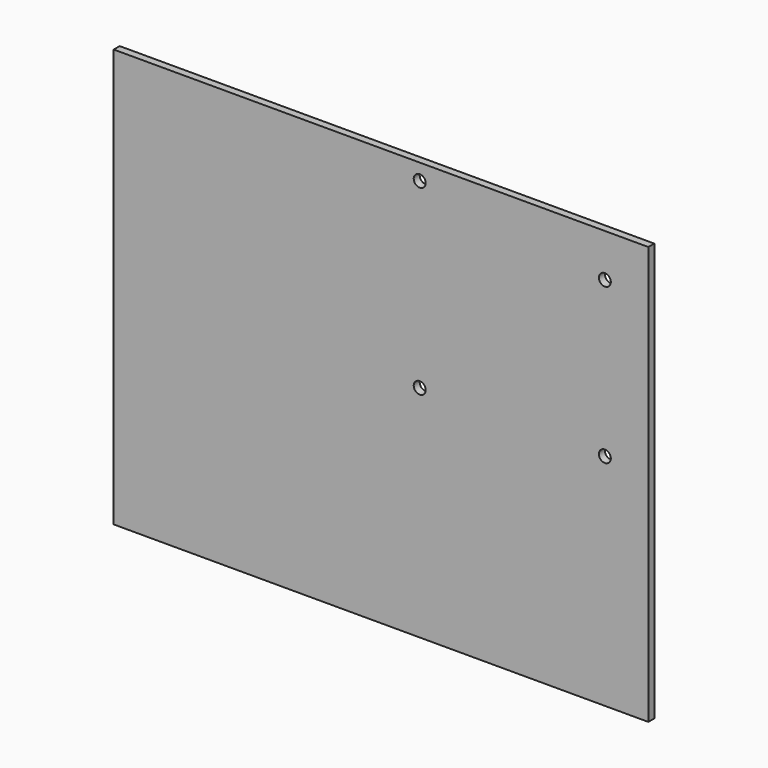
from build123d import *

# Parameters (mm, degrees)
F0_W     = 454.66
F0_H     = 355.6
F1_DEPTH = 6.35
F2_R     = 5.08
F3_DEPTH = 6.35


with BuildPart() as f1:
    # F0 (on Front) → F1 (new body)
    with BuildSketch(Plane.XZ):
        Rectangle(F0_W, F0_H)
    extrude(amount=F1_DEPTH)

    # F2 (on face) → F3 (cut, through all)
    with BuildSketch(Plane.XZ.offset(6.35)):
        with Locations((32.902107, 164.058188)):
            Circle(F2_R)
        with Locations((190.382107, 141.198188)):
            Circle(F2_R)
        with Locations((190.382107, 9.118188)):
            Circle(F2_R)
        with Locations((32.902107, 9.118188)):
            Circle(F2_R)
    extrude(amount=-F3_DEPTH, mode=Mode.SUBTRACT)


solid = f1.part
